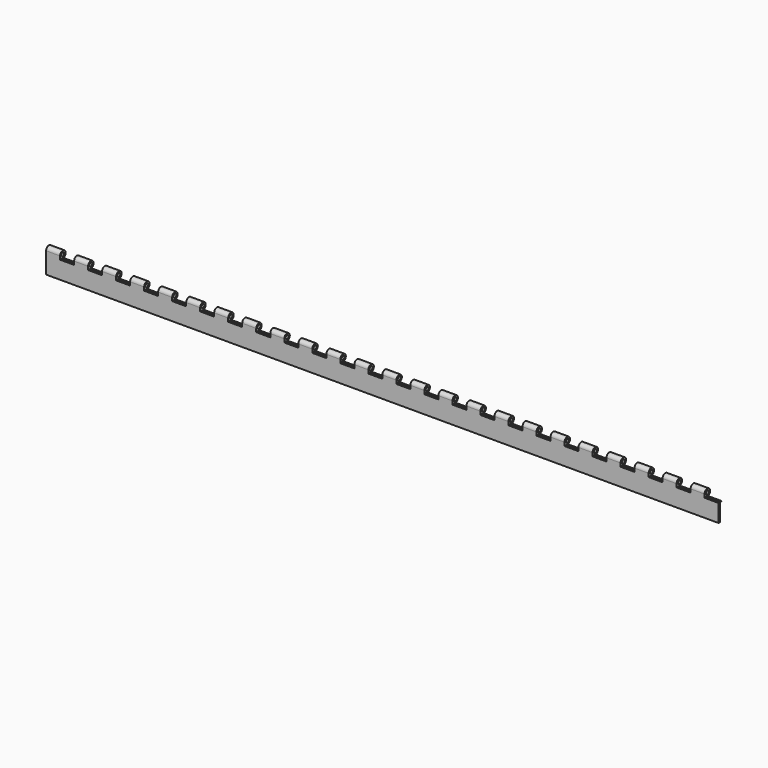
from build123d import *

# Parameters (mm, degrees)
F0_R          = 1.5875
F1_DEPTH      = 609.6
F2_W          = 12.7
F2_H          = 6.223
F3_DEPTH      = 25.4
F3_DEPTH_BACK = 25.4


with BuildPart() as f1:
    # F0 (on Right) → F1 (new body)
    with BuildSketch(Plane.YZ):
        with BuildLine():
            Line((-1.5875, -19.05), (-1.5875, -2.6760560532))
            ThreePointArc((-1.5875, -2.6760560532), (2.7037879447, 1.5397931679), (-3.1115, 0))
            Line((-3.1115, 0), (-3.1115, -19.05))
            Line((-3.1115, -19.05), (-1.5875, -19.05))
        make_face()
        Circle(F0_R, mode=Mode.SUBTRACT)
    extrude(amount=F1_DEPTH)

    # F2 (on Front) → F3 (cut, two sides)
    with BuildSketch(Plane.XZ) as f3_sk:
        with Locations((19.05, 0.0635)):
            Rectangle(F2_W, F2_H)
        with Locations((44.45, 0.0635)):
            Rectangle(F2_W, F2_H)
        with Locations((69.85, 0.0635)):
            Rectangle(F2_W, F2_H)
        with Locations((95.25, 0.0635)):
            Rectangle(F2_W, F2_H)
        with Locations((120.65, 0.0635)):
            Rectangle(F2_W, F2_H)
        with Locations((146.05, 0.0635)):
            Rectangle(F2_W, F2_H)
        with Locations((171.45, 0.0635)):
            Rectangle(F2_W, F2_H)
        with Locations((196.85, 0.0635)):
            Rectangle(F2_W, F2_H)
        with Locations((222.25, 0.0635)):
            Rectangle(F2_W, F2_H)
        with Locations((247.65, 0.0635)):
            Rectangle(F2_W, F2_H)
        with Locations((273.05, 0.0635)):
            Rectangle(F2_W, F2_H)
        with Locations((298.45, 0.0635)):
            Rectangle(F2_W, F2_H)
        with Locations((323.85, 0.0635)):
            Rectangle(F2_W, F2_H)
        with Locations((349.25, 0.0635)):
            Rectangle(F2_W, F2_H)
        with Locations((374.65, 0.0635)):
            Rectangle(F2_W, F2_H)
        with Locations((400.05, 0.0635)):
            Rectangle(F2_W, F2_H)
        with Locations((425.45, 0.0635)):
            Rectangle(F2_W, F2_H)
        with Locations((450.85, 0.0635)):
            Rectangle(F2_W, F2_H)
        with Locations((476.25, 0.0635)):
            Rectangle(F2_W, F2_H)
        with Locations((501.65, 0.0635)):
            Rectangle(F2_W, F2_H)
        with Locations((527.05, 0.0635)):
            Rectangle(F2_W, F2_H)
        with Locations((552.45, 0.0635)):
            Rectangle(F2_W, F2_H)
        with Locations((577.85, 0.0635)):
            Rectangle(F2_W, F2_H)
        with Locations((603.25, 0.0635)):
            Rectangle(F2_W, F2_H)
    extrude(amount=-F3_DEPTH, mode=Mode.SUBTRACT)
    extrude(f3_sk.sketch, amount=F3_DEPTH_BACK, mode=Mode.SUBTRACT)


solid = f1.part
